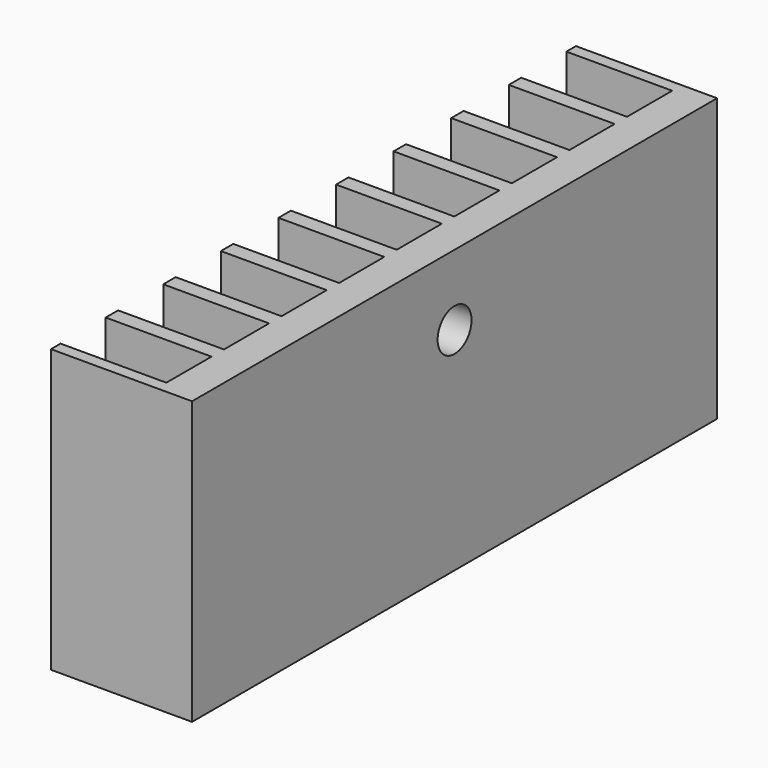
from build123d import *

# Parameters (mm, degrees)
SKETCH007_W             = 10
SKETCH007_H             = 46.5
PAD002_DEPTH            = 20
SKETCH006_W             = 10
SKETCH006_H             = 4
POCKET003_DEPTH         = 20
SKETCH005_R             = 1.5
POCKET004_DEPTH         = 5
BODY002_PLACEMENT_ANGLE = 180


with BuildPart() as part:
    # Sketch007 → Pad002 (new body)
    with BuildSketch(Plane.XY):
        Rectangle(SKETCH007_W, SKETCH007_H)
    extrude(amount=PAD002_DEPTH)

    # Sketch006 (on Face6 of Pad002) → Pocket003 (cut)
    with BuildSketch(Plane.XY.offset(20)):
        with Locations((2.5, 20.4)):
            Rectangle(SKETCH006_W, SKETCH006_H)
        with Locations((2.5, 10.2)):
            Rectangle(SKETCH006_W, SKETCH006_H)
        with Locations((2.5, 15.3)):
            Rectangle(SKETCH006_W, SKETCH006_H)
        with Locations((2.5, 5.1)):
            Rectangle(SKETCH006_W, SKETCH006_H)
        with Locations((2.5, 0)):
            Rectangle(SKETCH006_W, SKETCH006_H)
        with Locations((2.5, -20.4)):
            Rectangle(SKETCH006_W, SKETCH006_H)
        with Locations((2.5, -15.3)):
            Rectangle(SKETCH006_W, SKETCH006_H)
        with Locations((2.5, -10.2)):
            Rectangle(SKETCH006_W, SKETCH006_H)
        with Locations((2.5, -5.1)):
            Rectangle(SKETCH006_W, SKETCH006_H)
    extrude(amount=-POCKET003_DEPTH, mode=Mode.SUBTRACT)

    # Sketch005 (on Face26 of Pocket003) → Pocket004 (cut)
    with BuildSketch(Plane.YZ.offset(-2.5)):
        with Locations((0, 15)):
            Circle(SKETCH005_R)
    extrude(amount=-POCKET004_DEPTH, mode=Mode.SUBTRACT)


with BuildPart() as part_1:
    # Body002 placement: moved
    add(part.part.moved(Location((-18.5, 0, 1.65))).rotate(Axis((-18.5, 0, 1.65), (0, 0, 1)), BODY002_PLACEMENT_ANGLE))


solid = part_1.part
